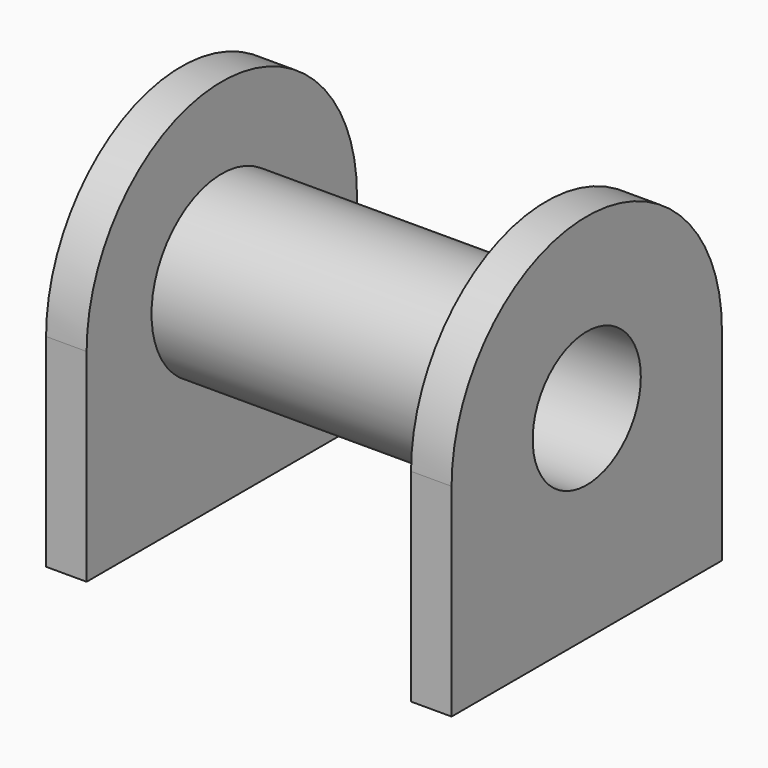
from build123d import *

# Parameters (mm, degrees)
SKETCH106_R   = 6.5
SKETCH106_R_2 = 5
PAD071_DEPTH  = 30
SKETCH107_R   = 6.5
PAD074_DEPTH  = 3
SKETCH108_R   = 6.5
PAD075_DEPTH  = 3


with BuildPart() as part:
    # Sketch106 → Pad071 (new body)
    with BuildSketch(Plane.YZ):
        Circle(SKETCH106_R)
        Circle(SKETCH106_R_2, mode=Mode.SUBTRACT)
    extrude(amount=PAD071_DEPTH)

    # Sketch107 (on Face3 of Pad071) → Pad074 (join)
    with BuildSketch(Plane(origin=(0, 0, 0), x_dir=(0, 1, 0), z_dir=(-1, 0, 0))):
        with BuildLine():
            Line((-12.5, 15), (12.5, 15))
            Line((12.5, 15), (12.5, 0))
            ThreePointArc((-12.5, 0), (0, -12.5), (12.5, 0))
            Line((-12.5, 0), (-12.5, 15))
        make_face()
        Circle(SKETCH107_R, mode=Mode.SUBTRACT)
    extrude(amount=-PAD074_DEPTH)

    # Sketch108 (on Face3 of Pad074) → Pad075 (join)
    with BuildSketch(Plane.YZ.offset(30)):
        with BuildLine():
            Line((-12.5, -15), (-12.5, 0))
            ThreePointArc((12.5, 0), (0, 12.5), (-12.5, 0))
            Line((12.5, 0), (12.5, -15))
            Line((12.5, -15), (-12.5, -15))
        make_face()
        Circle(SKETCH108_R, mode=Mode.SUBTRACT)
    extrude(amount=-PAD075_DEPTH)


with BuildPart() as part_1:
    # Body045 placement: moved
    add(part.part.moved(Location((-62, 0, 0))))


solid = part_1.part
